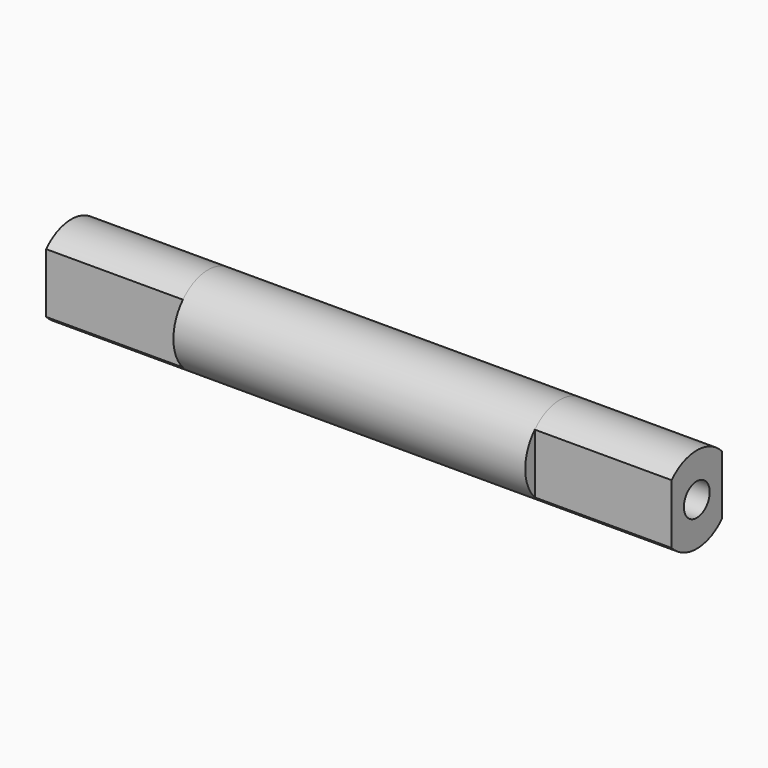
from build123d import *

# Parameters (mm, degrees)
SKETCH037_R  = 2.55
PAD031_DEPTH = 10.35
SKETCH038_R  = 0.95
PAD032_DEPTH = 8.05
SKETCH053_R  = 0.95
PAD045_DEPTH = 8.05


with BuildPart() as part:
    # Sketch037 → Pad031 (new body, symmetric)
    with BuildSketch(Plane.YZ):
        Circle(SKETCH037_R)
    extrude(amount=PAD031_DEPTH, both=True)

    # Sketch038 (on Face3 of Pad031) → Pad032 (join)
    with BuildSketch(Plane.YZ.offset(10.35)):
        with BuildLine():
            ThreePointArc((1.85, 1.754993), (0, 2.55), (-1.85, 1.754993))
            Line((-1.85, 1.754993), (-1.85, -1.754993))
            ThreePointArc((-1.85, -1.754993), (0, -2.55), (1.85, -1.754993))
            Line((1.85, 1.754993), (1.85, -1.754993))
        make_face()
        Circle(SKETCH038_R, mode=Mode.SUBTRACT)
    extrude(amount=PAD032_DEPTH)

    # Sketch053 (on Face9 of Pad032) → Pad045 (join)
    with BuildSketch(Plane(origin=(-10.35, 0, 0), x_dir=(0, 1, 0), z_dir=(-1, 0, 0))):
        with BuildLine():
            Line((-1.85, 1.754993), (-1.85, -1.754993))
            ThreePointArc((-1.85, -1.754993), (0, -2.55), (1.85, -1.754993))
            Line((1.85, -1.754993), (1.85, 1.754993))
            ThreePointArc((1.85, 1.754993), (0, 2.55), (-1.85, 1.754993))
        make_face()
        Circle(SKETCH053_R, mode=Mode.SUBTRACT)
    extrude(amount=PAD045_DEPTH)


solid = part.part
